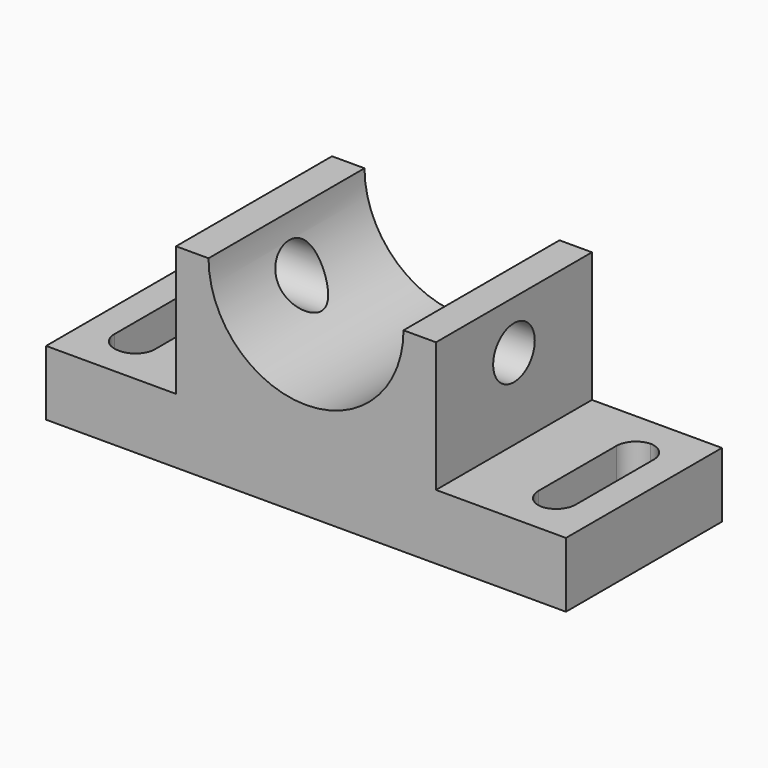
from build123d import *

# Parameters (mm, degrees)
F1_DEPTH = 30
F2_R     = 8
F3_DEPTH = 120.001
F5_DEPTH = 20.001
F7_DEPTH = 20.001


with BuildPart() as f1:
    # F0 (on Front) → F1 (new body, symmetric)
    with BuildSketch(Plane.XZ):
        with BuildLine():
            Line((-80, -39.266379), (80, -39.266379))
            Line((80, -39.266379), (80, -19.266379))
            Line((80, -19.266379), (40, -19.266379))
            Line((40, -19.266379), (40, 20.733621))
            Line((40, 20.733621), (30, 20.733621))
            ThreePointArc((30, 20.733621), (0, -9.266379), (-30, 20.733621))
            Line((-30, 20.733621), (-40, 20.733621))
            Line((-40, 20.733621), (-40, -19.266379))
            Line((-40, -19.266379), (-80, -19.266379))
            Line((-80, -19.266379), (-80, -39.266379))
        make_face()
    extrude(amount=F1_DEPTH, both=True)

    # F2 (on face) → F3 (cut, through all)
    with BuildSketch(Plane.YZ.offset(40)):
        with Locations((0, 5.733621)):
            Circle(F2_R)
    extrude(amount=-F3_DEPTH, mode=Mode.SUBTRACT)

    # F4 (on face) → F5 (cut, through all)
    with BuildSketch(Plane.XY.offset(-19.266379)):
        with BuildLine():
            ThreePointArc((-58.471588, 15), (-60.228947, 19.242641), (-64.471588, 21))
            Line((-64.471588, 21), (-65, 21))
            ThreePointArc((-65, 21), (-69.242641, 19.242641), (-71, 15))
            Line((-71, 15), (-71, -15))
            ThreePointArc((-71, -15), (-69.242641, -19.242641), (-65, -21))
            Line((-65, -21), (-64.471588, -21))
            ThreePointArc((-64.471588, -21), (-60.228947, -19.242641), (-58.471588, -15))
            Line((-58.471588, -15), (-58.471588, 15))
        make_face()
    extrude(amount=-F5_DEPTH, mode=Mode.SUBTRACT)

    # F6 (on face) → F7 (cut, through all)
    with BuildSketch(Plane.XY.offset(-19.266379)):
        with BuildLine():
            ThreePointArc((71, 15), (69.335045, 19.148178), (65.264206, 20.99418))
            ThreePointArc((65.264206, 20.99418), (61.193367, 19.148178), (59.528412, 15))
            Line((59.528412, 15), (59.528412, -15))
            ThreePointArc((59.528412, -15), (61.193367, -19.148178), (65.264206, -20.99418))
            ThreePointArc((65.264206, -20.99418), (69.335045, -19.148178), (71, -15))
            Line((71, -15), (71, 15))
        make_face()
    extrude(amount=-F7_DEPTH, mode=Mode.SUBTRACT)


solid = f1.part
